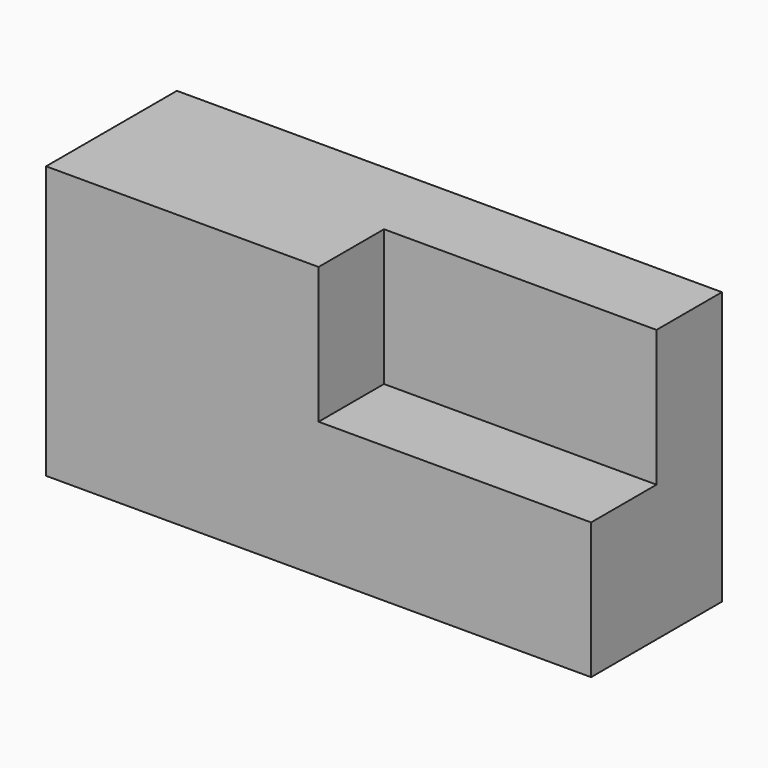
from build123d import *

# Parameters (mm, degrees)
F1_DEPTH = 38.1
F0_W     = 63.5
F0_H     = 31.75
F2_DEPTH = 19.05


with BuildPart() as f1:
    # F0 (on Front) → F1 (new body)
    with BuildSketch(Plane.XZ):
        Polygon((-12.096234, 74.430329), (-75.596234, 74.430329), (-75.596234, 10.930329), (51.403766, 10.930329), (51.403766, 42.680329), (-12.096234, 42.680329), align=None)
    extrude(amount=F1_DEPTH)

    # F0 (on Front) → F2 (join)
    with BuildSketch(Plane.XZ):
        with Locations((19.653766, 58.555329)):
            Rectangle(F0_W, F0_H)
        Polygon((-12.096234, 74.430329), (-75.596234, 74.430329), (-75.596234, 10.930329), (51.403766, 10.930329), (51.403766, 42.680329), (-12.096234, 42.680329), align=None)
    extrude(amount=F2_DEPTH)


solid = f1.part
